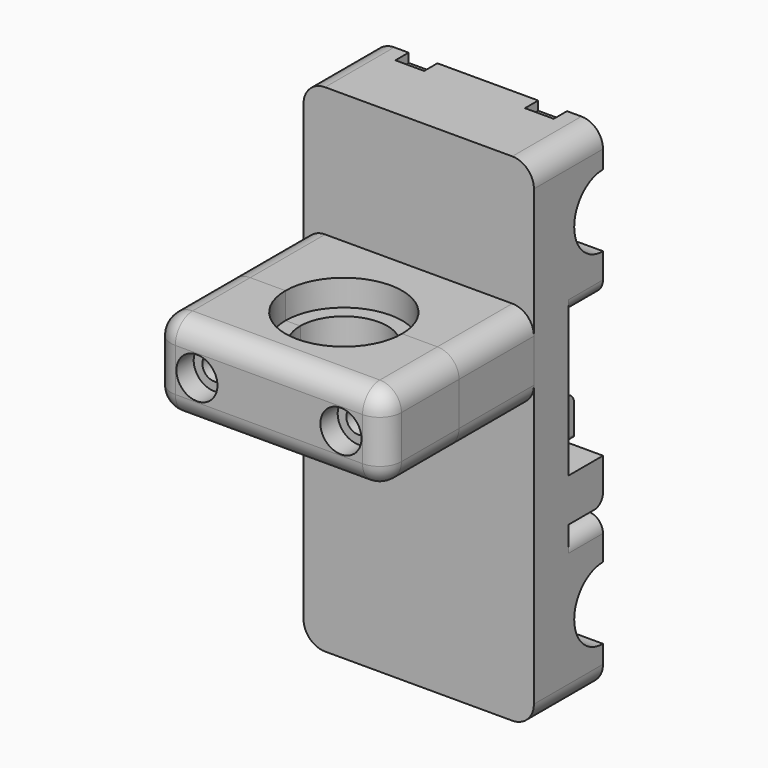
from build123d import *

# Parameters (mm, degrees)
F0_W      = 32
F0_H      = 69
F1_DEPTH  = 6
F2_W      = 32
F2_H      = 21
F3_DEPTH  = 6
F5_R      = 8
F6_DEPTH  = 25
F8_DEPTH  = 32
F11_R     = 10.75
F11_R_2   = 9.25
F12_DEPTH = 4
F13_R     = 10.75
F13_R_2   = 9.25
F14_DEPTH = 4
F15_R     = 2
F16_R     = 3
F17_R     = 1.65
F18_DEPTH = 6.001
F19_DEPTH = 3
F20_W     = 32
F20_H     = 12
F20_R     = 1.65
F21_DEPTH = 13
F22_DEPTH = 13
F23_R     = 3
F23_2_R   = 3
F25_DEPTH = 3.65
F27_DEPTH = 3
F29_DEPTH = 25
F30_R     = 2.85
F31_DEPTH = 3
F32_W     = 14.32
F32_H     = 6
F32_W_2   = 0.08
F32_H_2   = 5
F33_DEPTH = 6
F34_R     = 1.5


with BuildPart() as f1:
    # F0 (on Front) → F1 (new body)
    with BuildSketch(Plane.XZ):
        Rectangle(F0_W, F0_H)
    extrude(amount=F1_DEPTH)

    # F2 (on face) → F3 (join)
    with BuildSketch(Plane.XZ):
        with Locations((0, 24)):
            Rectangle(F2_W, F2_H)
        with Locations((0, -24)):
            Rectangle(F2_W, F2_H)
    extrude(amount=-F3_DEPTH)

    # F5 (on offset) → F6 (cut)
    with BuildSketch(Plane.YZ.offset(12.5)):
        with Locations((6, 24)):
            Circle(F5_R)
        with Locations((6, -24)):
            Circle(F5_R)
    extrude(amount=-F6_DEPTH, mode=Mode.SUBTRACT)

    # F7 (on face) → F8 (cut, through all)
    with BuildSketch(Plane.YZ.offset(16)):
        with BuildLine():
            Line((6, 19), (6, 29))
            ThreePointArc((6, 29), (1, 24), (6, 19))
        make_face()
        with BuildLine():
            ThreePointArc((6, -19), (1, -24), (6, -29))
            Line((6, -29), (6, -19))
        make_face()
    extrude(amount=-F8_DEPTH, mode=Mode.SUBTRACT)

    # F11 (on offset) → F12 (cut)
    with BuildSketch(Plane.YZ.offset(11)):
        with Locations((6, 24)):
            Circle(F11_R)
        with Locations((6, 24)):
            Circle(F11_R_2, mode=Mode.SUBTRACT)
        with Locations((6, -24)):
            Circle(F11_R)
        with Locations((6, -24)):
            Circle(F11_R_2, mode=Mode.SUBTRACT)
    extrude(amount=-F12_DEPTH, mode=Mode.SUBTRACT)

    # F13 (on offset) → F14 (cut)
    with BuildSketch(Plane(origin=(-11, 0, 0), x_dir=(0, -1, 0), z_dir=(-1, 0, 0))):
        with Locations((-6, 24)):
            Circle(F13_R)
        with Locations((-6, 24)):
            Circle(F13_R_2, mode=Mode.SUBTRACT)
        with Locations((-6, -24)):
            Circle(F13_R)
        with Locations((-6, -24)):
            Circle(F13_R_2, mode=Mode.SUBTRACT)
    extrude(amount=-F14_DEPTH, mode=Mode.SUBTRACT)

    # F15
    f15_edges = [f1.edges().sort_by_distance(p)[0] for p in [
        (16, 3, 13.5),
        (-16, 3, 13.5),
        (16, 3, -13.5),
        (-16, 3, -13.5),
    ]]
    fillet(f15_edges, radius=F15_R)

    # F16
    f16_edges = [f1.edges().sort_by_distance(p)[0] for p in [
        (16, 0, -34.5),
        (-16, 0, -34.5),
        (16, 0, 34.5),
        (-16, 0, 34.5),
    ]]
    fillet(f16_edges, radius=F16_R)

    # F17 (on face) → F18 (cut, through all)
    with BuildSketch(Plane(origin=(0, 0, 0), x_dir=(-1, 0, 0), z_dir=(0, 1, 0))):
        with Locations((-10, 10.5)):
            Circle(F17_R)
        with Locations((10, 10.5)):
            Circle(F17_R)
    extrude(amount=-F18_DEPTH, mode=Mode.SUBTRACT)

    # F17 (on face) → F19 (cut)
    with BuildSketch(Plane(origin=(0, 0, 0), x_dir=(-1, 0, 0), z_dir=(0, 1, 0))):
        Polygon((-11.6165807537, 13.3), (-13.2331615075, 10.5), (-11.6165807537, 7.7), (-8.3834192463, 7.7), (-6.7668384925, 10.5), (-8.3834192463, 13.3), align=None)
        with Locations((-10, 10.5)):
            Circle(F17_R, mode=Mode.SUBTRACT)
        Polygon((8.3834192463, 13.3), (6.7668384925, 10.5), (8.3834192463, 7.7), (11.6165807537, 7.7), (13.2331615075, 10.5), (11.6165807537, 13.3), align=None)
        with Locations((10, 10.5)):
            Circle(F17_R, mode=Mode.SUBTRACT)
    extrude(amount=-F19_DEPTH, mode=Mode.SUBTRACT)

    # F32 (on face) → F33 (join)
    with BuildSketch(Plane.XZ):
        Polygon((12, -4.42), (12, 0.58), (-12, 0.58), (-12, -4.42), (-10.88, -4.42), (-10, -4.42), (-8.8, -4.42), (-7.92, -4.42), (-6.72, -4.42), (-5.84, -4.42), (-4.64, -4.42), (-3.76, -4.42), (-2.56, -4.42), (-1.68, -4.42), (-0.48, -4.42), (0.4, -4.42), (1.6, -4.42), (2.48, -4.42), (3.68, -4.42), (4.56, -4.42), (5.76, -4.42), (6.64, -4.42), (7.84, -4.42), (8.72, -4.42), (9.92, -4.42), (10.8, -4.42), align=None)
        with Locations((-8.84, -9)):
            Rectangle(F32_W, F32_H)
        with Locations((8.84, -9)):
            Rectangle(F32_W, F32_H)
        with BuildLine():
            Line((12, -4.72), (12, -4.42))
            Line((12, -4.42), (10.8, -4.42))
            Line((10.8, -4.42), (10.8, -4.72))
            ThreePointArc((10.8, -4.72), (10.9318019485, -5.0381980515), (11.25, -5.17))
            Line((11.25, -5.17), (11.55, -5.17))
            ThreePointArc((11.55, -5.17), (11.8681980515, -5.0381980515), (12, -4.72))
        make_face()
        with BuildLine():
            Line((7.84, -4.72), (7.84, -4.42))
            Line((7.84, -4.42), (6.64, -4.42))
            Line((6.64, -4.42), (6.64, -4.72))
            ThreePointArc((6.64, -4.72), (6.7718019485, -5.0381980515), (7.09, -5.17))
            Line((7.09, -5.17), (7.39, -5.17))
            ThreePointArc((7.39, -5.17), (7.7081980515, -5.0381980515), (7.84, -4.72))
        make_face()
        with BuildLine():
            Line((9.92, -4.72), (9.92, -4.42))
            Line((9.92, -4.42), (8.72, -4.42))
            Line((8.72, -4.42), (8.72, -4.72))
            ThreePointArc((8.72, -4.72), (8.8518019485, -5.0381980515), (9.17, -5.17))
            Line((9.17, -5.17), (9.47, -5.17))
            ThreePointArc((9.47, -5.17), (9.7881980515, -5.0381980515), (9.92, -4.72))
        make_face()
        with BuildLine():
            Line((5.76, -4.72), (5.76, -4.42))
            Line((5.76, -4.42), (4.56, -4.42))
            Line((4.56, -4.42), (4.56, -4.72))
            ThreePointArc((4.56, -4.72), (4.6918019485, -5.0381980515), (5.01, -5.17))
            Line((5.01, -5.17), (5.31, -5.17))
            ThreePointArc((5.31, -5.17), (5.6281980515, -5.0381980515), (5.76, -4.72))
        make_face()
        with BuildLine():
            Line((3.68, -4.72), (3.68, -4.42))
            Line((3.68, -4.42), (2.48, -4.42))
            Line((2.48, -4.42), (2.48, -4.72))
            ThreePointArc((2.48, -4.72), (2.6118019485, -5.0381980515), (2.93, -5.17))
            Line((2.93, -5.17), (3.23, -5.17))
            ThreePointArc((3.23, -5.17), (3.5481980515, -5.0381980515), (3.68, -4.72))
        make_face()
        with BuildLine():
            Line((1.6, -4.72), (1.6, -4.42))
            Line((1.6, -4.42), (0.4, -4.42))
            Line((0.4, -4.42), (0.4, -4.72))
            ThreePointArc((0.4, -4.72), (0.5318019485, -5.0381980515), (0.85, -5.17))
            Line((0.85, -5.17), (1.15, -5.17))
            ThreePointArc((1.15, -5.17), (1.4681980515, -5.0381980515), (1.6, -4.72))
        make_face()
        with BuildLine():
            Line((-0.48, -4.42), (-1.68, -4.42))
            Line((-1.68, -4.42), (-1.68, -4.72))
            ThreePointArc((-1.68, -4.72), (-1.5481980515, -5.0381980515), (-1.23, -5.17))
            Line((-1.23, -5.17), (-0.93, -5.17))
            ThreePointArc((-0.93, -5.17), (-0.6118019485, -5.0381980515), (-0.48, -4.72))
            Line((-0.48, -4.72), (-0.48, -4.42))
        make_face()
        with BuildLine():
            Line((-2.56, -4.42), (-3.76, -4.42))
            Line((-3.76, -4.42), (-3.76, -4.72))
            ThreePointArc((-3.76, -4.72), (-3.6281980515, -5.0381980515), (-3.31, -5.17))
            Line((-3.31, -5.17), (-3.01, -5.17))
            ThreePointArc((-3.01, -5.17), (-2.6918019485, -5.0381980515), (-2.56, -4.72))
            Line((-2.56, -4.72), (-2.56, -4.42))
        make_face()
        with BuildLine():
            Line((-4.64, -4.42), (-5.84, -4.42))
            Line((-5.84, -4.42), (-5.84, -4.72))
            ThreePointArc((-5.84, -4.72), (-5.7081980515, -5.0381980515), (-5.39, -5.17))
            Line((-5.39, -5.17), (-5.09, -5.17))
            ThreePointArc((-5.09, -5.17), (-4.7718019485, -5.0381980515), (-4.64, -4.72))
            Line((-4.64, -4.72), (-4.64, -4.42))
        make_face()
        with Locations((-12.04, -1.92)):
            Rectangle(F32_W_2, F32_H_2)
        with BuildLine():
            Line((-6.72, -4.42), (-7.92, -4.42))
            Line((-7.92, -4.42), (-7.92, -4.72))
            ThreePointArc((-7.92, -4.72), (-7.7881980515, -5.0381980515), (-7.47, -5.17))
            Line((-7.47, -5.17), (-7.17, -5.17))
            ThreePointArc((-7.17, -5.17), (-6.8518019485, -5.0381980515), (-6.72, -4.72))
            Line((-6.72, -4.72), (-6.72, -4.42))
        make_face()
        with BuildLine():
            Line((-8.8, -4.42), (-10, -4.42))
            Line((-10, -4.42), (-10, -4.72))
            ThreePointArc((-10, -4.72), (-9.8681980515, -5.0381980515), (-9.55, -5.17))
            Line((-9.55, -5.17), (-9.25, -5.17))
            ThreePointArc((-9.25, -5.17), (-8.9318019485, -5.0381980515), (-8.8, -4.72))
            Line((-8.8, -4.72), (-8.8, -4.42))
        make_face()
        with Locations((-12.04, -1.92)):
            Rectangle(F32_W_2, F32_H_2)
        with BuildLine():
            Line((-10.88, -4.42), (-12, -4.42))
            Line((-12, -4.42), (-12.08, -4.42))
            Line((-12.08, -4.42), (-12.08, -4.72))
            ThreePointArc((-12.08, -4.72), (-11.9481980515, -5.0381980515), (-11.63, -5.17))
            Line((-11.63, -5.17), (-11.33, -5.17))
            ThreePointArc((-11.33, -5.17), (-11.0118019485, -5.0381980515), (-10.88, -4.72))
            Line((-10.88, -4.72), (-10.88, -4.42))
        make_face()
    extrude(amount=-F33_DEPTH)

    # F34
    f34_edges = [f1.edges().sort_by_distance(p)[0] for p in [
        (-8.84, 6, -12),
        (8.84, 6, -12),
        (-0.04, 6, 0.58),
    ]]
    fillet(f34_edges, radius=F34_R)


with BuildPart() as f21:
    # F20 (on face) → F21 (new body)
    with BuildSketch(Plane.XZ.offset(6)):
        with Locations((0, 10.5)):
            Rectangle(F20_W, F20_H)
        with Locations((-10, 10.5)):
            Circle(F20_R, mode=Mode.SUBTRACT)
        with Locations((10, 10.5)):
            Circle(F20_R, mode=Mode.SUBTRACT)
    extrude(amount=F21_DEPTH)


with BuildPart() as f22:
    # F22 (new): a face of the model
    f22_faces = [f21.part.faces().sort_by_distance(p)[0] for p in [
        (0, -19, 10.5),
    ]]
    extrude(f22_faces, amount=F22_DEPTH)

    # F23
    f23_edges = [f22.edges().sort_by_distance(p)[0] for p in [
        (-16, -32, 10.5),
        (16, -32, 10.5),
        (16, -25.5, 16.5),
        (16, -25.5, 4.5),
        (-16, -25.5, 4.5),
        (0, -32, 4.5),
        (0, -32, 16.5),
        (-16, -25.5, 16.5),
    ]]
    fillet(f23_edges, radius=F23_R)


with BuildPart() as f21_1:
    add(f21.part)

    # F23#2
    f23_2_edges = [f21_1.edges().sort_by_distance(p)[0] for p in [
        (16, -12.5, 16.5),
        (16, -12.5, 4.5),
        (-16, -12.5, 4.5),
        (-16, -12.5, 16.5),
    ]]
    fillet(f23_2_edges, radius=F23_2_R)


with BuildPart() as f25_tool:
    # F24 (on face) → F25 (new body)
    with BuildSketch(Plane.XY.offset(16.5)):
        with BuildLine():
            Line((-8.1, -19), (8.1, -19))
            ThreePointArc((8.1, -19), (0, -10.9), (-8.1, -19))
        make_face()
        with BuildLine():
            ThreePointArc((-8.1, -19), (0, -27.1), (8.1, -19))
            Line((8.1, -19), (-8.1, -19))
        make_face()
    extrude(amount=-F25_DEPTH)


with BuildPart() as f21_2:
    add(f21_1.part)

    # F25: cut by f25_tool
    add(f25_tool.part, mode=Mode.SUBTRACT)


with BuildPart() as f22_1:
    add(f22.part)

    # F25: cut by f25_tool
    add(f25_tool.part, mode=Mode.SUBTRACT)


with BuildPart() as f27_tool:
    # F26 (on face) → F27 (new body)
    with BuildSketch(Plane(origin=(0, 0, 4.5), x_dir=(1, 0, 0), z_dir=(0, 0, -1))):
        with BuildLine():
            Line((-8.1, 19), (8.1, 19))
            ThreePointArc((8.1, 19), (0, 27.1), (-8.1, 19))
        make_face()
        with BuildLine():
            ThreePointArc((-8.1, 19), (0, 10.9), (8.1, 19))
            Line((8.1, 19), (-8.1, 19))
        make_face()
    extrude(amount=-F27_DEPTH)


with BuildPart() as f21_3:
    add(f21_2.part)

    # F27: cut by f27_tool
    add(f27_tool.part, mode=Mode.SUBTRACT)


with BuildPart() as f22_2:
    add(f22_1.part)

    # F27: cut by f27_tool
    add(f27_tool.part, mode=Mode.SUBTRACT)


with BuildPart() as f29_tool:
    # F28 (on face) → F29 (new body)
    with BuildSketch(Plane.XY.offset(12.85)):
        with BuildLine():
            Line((-6.05, -19), (6.05, -19))
            ThreePointArc((6.05, -19), (0, -12.95), (-6.05, -19))
        make_face()
        with BuildLine():
            ThreePointArc((-6.05, -19), (0, -25.05), (6.05, -19))
            Line((6.05, -19), (-6.05, -19))
        make_face()
    extrude(amount=-F29_DEPTH)


with BuildPart() as f21_4:
    add(f21_3.part)

    # F29: cut by f29_tool
    add(f29_tool.part, mode=Mode.SUBTRACT)


with BuildPart() as f22_3:
    add(f22_2.part)

    # F29: cut by f29_tool
    add(f29_tool.part, mode=Mode.SUBTRACT)

    # F30 (on face) → F31 (cut)
    with BuildSketch(Plane.XZ.offset(32)):
        with Locations((-10, 10.5)):
            Circle(F30_R)
        with Locations((10, 10.5)):
            Circle(F30_R)
    extrude(amount=-F31_DEPTH, mode=Mode.SUBTRACT)


solid = Compound([f1.part, f21_4.part, f22_3.part])
